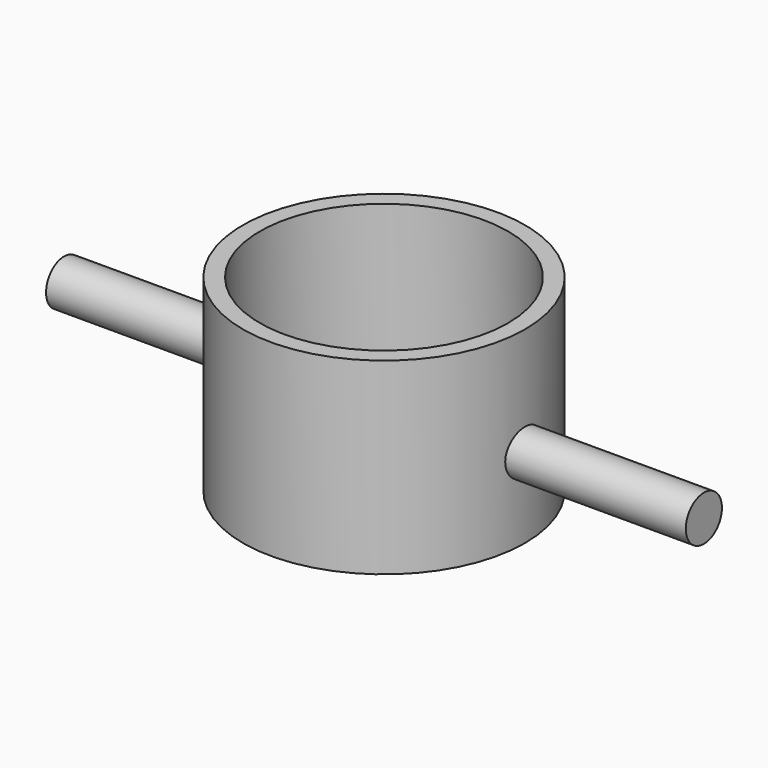
from build123d import *

# Parameters (mm, degrees)
F0_R     = 9.525
F1_DEPTH = 12.7
F2_R     = 8.382
F3_DEPTH = 25.4
F5_R     = 1.524
F6_DEPTH = 12.7


with BuildPart() as f1:
    # F0 (on Top) → F1 (new body)
    with BuildSketch(Plane.XY):
        Circle(F0_R)
    extrude(amount=F1_DEPTH)

    # F2 (on face) → F3 (cut)
    with BuildSketch(Plane.XY.offset(12.7)):
        Circle(F2_R)
    extrude(amount=-F3_DEPTH, mode=Mode.SUBTRACT)

    # F5 (on offset) → F6 (join)
    with BuildSketch(Plane.YZ.offset(8.89)):
        with Locations((0, 5.393751)):
            Circle(F5_R)
    extrude(amount=F6_DEPTH)

    # F7: F1 across plane


with BuildPart() as f1_1:
    add(f1.part)
    add(f1.part.mirror(Plane.YZ))


solid = f1_1.part
